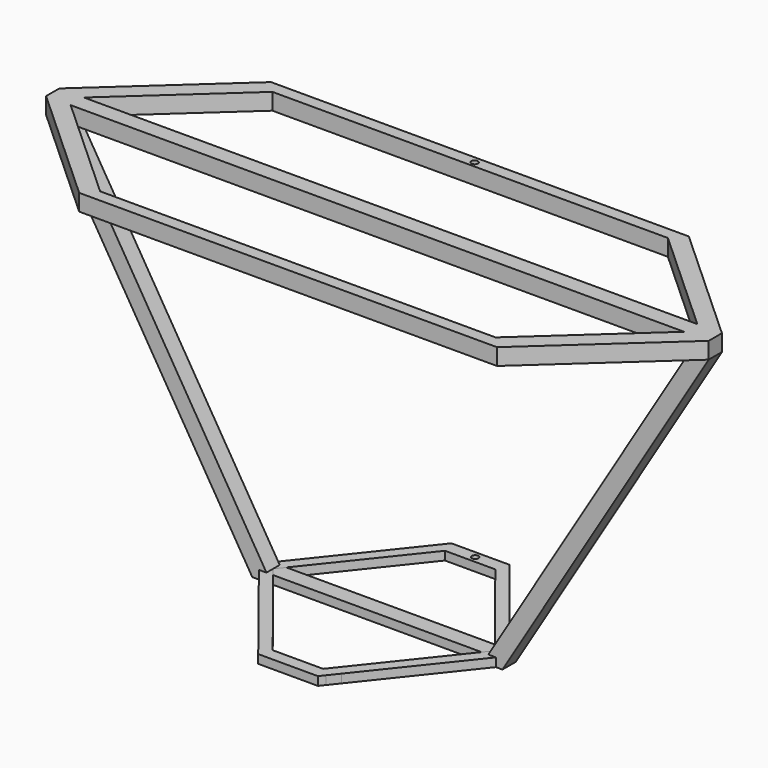
from build123d import *

# Parameters (mm, degrees)
F0_R     = 0.254
F1_DEPTH = 1.27
F3_DEPTH = 0.635
F5_R     = 0.254
F6_DEPTH = 0.6604


with BuildPart() as f1:
    # F0 (on Top) → F1 (new body)
    with BuildSketch(Plane.XY):
        Polygon((16.016765, -9.193323), (25.4, -0.635), (25.4, 0.635), (16.016765, 9.193323), (-16.016765, 9.193323), (-25.4, 0.635), (-25.4, -0.635), (-16.016765, -9.193323), align=None)
        Polygon((-23.515402, -0.635), (23.515402, -0.635), (15.160933, -8.255), (-15.160933, -8.255), align=None, mode=Mode.SUBTRACT)
        Polygon((15.160933, 8.255), (23.515402, 0.635), (-23.515402, 0.635), (-15.160933, 8.255), align=None, mode=Mode.SUBTRACT)
        with Locations((0, 8.685323)):
            Circle(F0_R, mode=Mode.SUBTRACT)
    extrude(amount=F1_DEPTH)


with BuildPart() as f3:
    # F2 (on Front) → F3 (new body, symmetric)
    with BuildSketch(Plane.XZ):
        Polygon((-23.914527, 0), (-25.4, 0), (-9.589531, -26.05877), (9.589531, -26.05877), (25.4, 0), (23.914527, 0), (8.503749, -25.4), (-8.503749, -25.4), align=None)
    extrude(amount=F3_DEPTH, both=True)


with BuildPart() as f6:
    # F5 (on offset) → F6 (new body)
    with BuildSketch(Plane.XY.offset(-25.4)):
        Polygon((3.193676, -8.042787), (9.589531, 0), (3.022589, 8.250195), (2.604311, 8.775687), (2.225999, 9.250969), (-0.687336, 9.250969), (-2.23486, 9.250969), (-3.022588, 8.260137), (-3.288361, 7.925837), (-9.589531, 0), (-2.887769, -8.439773), (-2.608047, -8.792037), (-2.293075, -9.188693), (2.280778, -9.190756), (2.601799, -8.787072), align=None)
        Polygon((1.9304, 8.255), (8.497331, 0), (1.932718, -8.255), (-1.931736, -8.255), (-8.497331, 0), (-1.9304, 8.255), align=None, mode=Mode.SUBTRACT)
        with Locations((0, 8.742969)):
            Circle(F5_R, mode=Mode.SUBTRACT)
    extrude(amount=-F6_DEPTH)


solid = Compound([f1.part, f3.part, f6.part])
